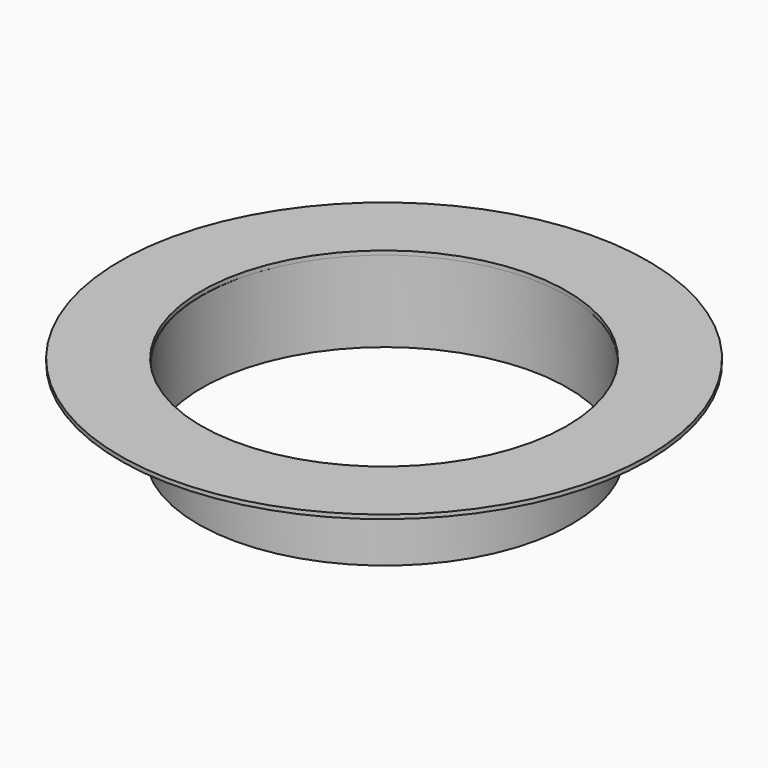
from build123d import *

# Parameters (mm, degrees)
SKETCH_R      = 92
SKETCH_R_2    = 90
PAD_DEPTH     = 40
SKETCH001_R   = 130
SKETCH001_R_2 = 90
PAD001_DEPTH  = 2


with BuildPart() as part:
    # Sketch → Pad (new body)
    with BuildSketch(Plane.XY):
        Circle(SKETCH_R)
        Circle(SKETCH_R_2, mode=Mode.SUBTRACT)
    extrude(amount=PAD_DEPTH)

    # Sketch001 (on Face4 of Pad) → Pad001 (join)
    with BuildSketch(Plane.XY.offset(40)):
        with Locations((-0.139716, -0.307385)):
            Circle(SKETCH001_R)
        with Locations((-0.139716, -0.307385)):
            Circle(SKETCH001_R_2, mode=Mode.SUBTRACT)
    extrude(amount=PAD001_DEPTH)


solid = part.part
